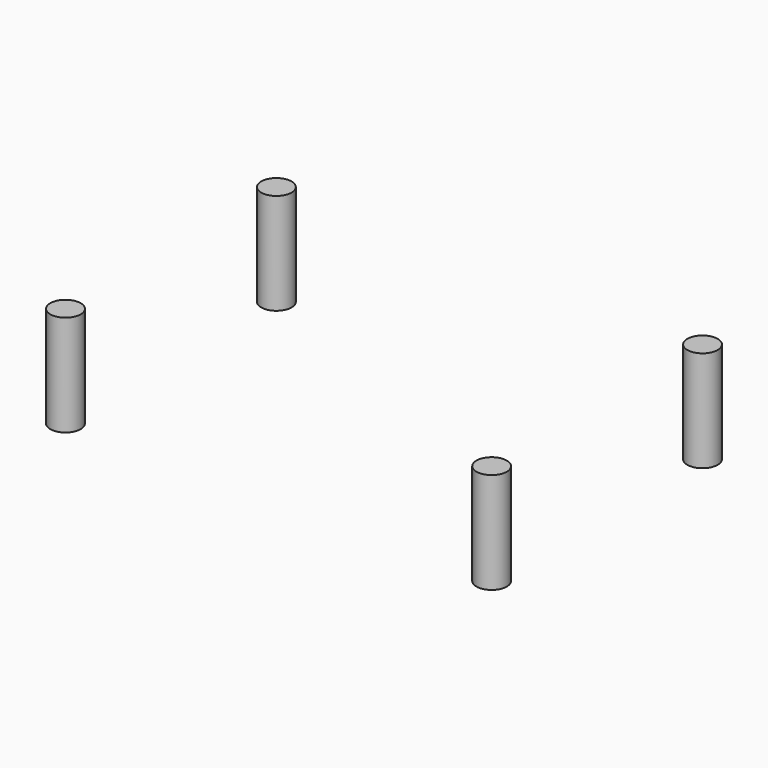
from build123d import *

# Parameters (mm, degrees)
CYLINDER004_R     = 2.1
CYLINDER004_DEPTH = 14
CYLINDER005_R     = 2.1
CYLINDER005_DEPTH = 14
CYLINDER006_R     = 2.1
CYLINDER006_DEPTH = 14
CYLINDER007_R     = 2.1
CYLINDER007_DEPTH = 14


with BuildPart() as cylinder004:
    # Cylinder004 → Cylinder004 (new body)
    with BuildSketch(Plane(origin=(7.5, 75.5, 2), x_dir=(1, 0, 0), z_dir=(0, 0, 1))):
        Circle(CYLINDER004_R)
    extrude(amount=CYLINDER004_DEPTH)


with BuildPart() as cylinder005:
    # Cylinder005 → Cylinder005 (new body)
    with BuildSketch(Plane(origin=(66.5, 39, 2), x_dir=(1, 0, 0), z_dir=(0, 0, 1))):
        Circle(CYLINDER005_R)
    extrude(amount=CYLINDER005_DEPTH)


with BuildPart() as cylinder006:
    # Cylinder006 → Cylinder006 (new body)
    with BuildSketch(Plane(origin=(7.5, 39, 2), x_dir=(1, 0, 0), z_dir=(0, 0, 1))):
        Circle(CYLINDER006_R)
    extrude(amount=CYLINDER006_DEPTH)


with BuildPart() as obj1:
    # Cylinder007 → Cylinder007 (new body)
    with BuildSketch(Plane(origin=(66.5, 75.5, 2), x_dir=(1, 0, 0), z_dir=(0, 0, 1))):
        Circle(CYLINDER007_R)
    extrude(amount=CYLINDER007_DEPTH)

    # Fusion001: union Cylinder004, Cylinder005, Cylinder006
    add(cylinder004.part)
    add(cylinder005.part)
    add(cylinder006.part)


solid = obj1.part
